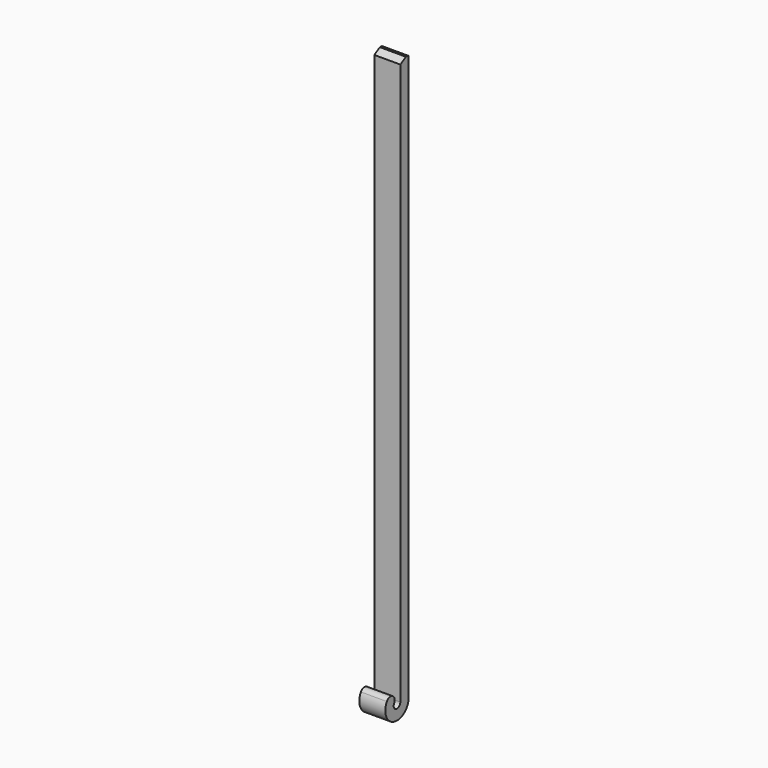
from build123d import *

# Parameters (mm, degrees)
F3_DEPTH = 4.7625


with BuildPart() as f3:
    # F2 (on Right) → F3 (new body, symmetric)
    with BuildSketch(Plane.YZ):
        with BuildLine():
            Line((16.925517, 55.81053), (16.925517, -149.733))
            ThreePointArc((16.925517, -149.733), (15.007077, -151.205071), (14.081694, -148.971))
            ThreePointArc((14.081694, -148.971), (13.381495, -146.35782), (10.768315, -147.05802))
            ThreePointArc((10.768315, -147.05802), (14.016845, -154.900665), (20.751477, -149.733))
            Line((20.751477, -149.733), (20.751477, 56.769))
            ThreePointArc((20.751477, 56.769), (20.602688, 57.12821), (20.243477, 57.277))
            Line((20.243477, 57.277), (19.465517, 57.277))
            Line((19.465517, 57.277), (16.925517, 55.81053))
        make_face()
    extrude(amount=F3_DEPTH, both=True)


solid = f3.part
